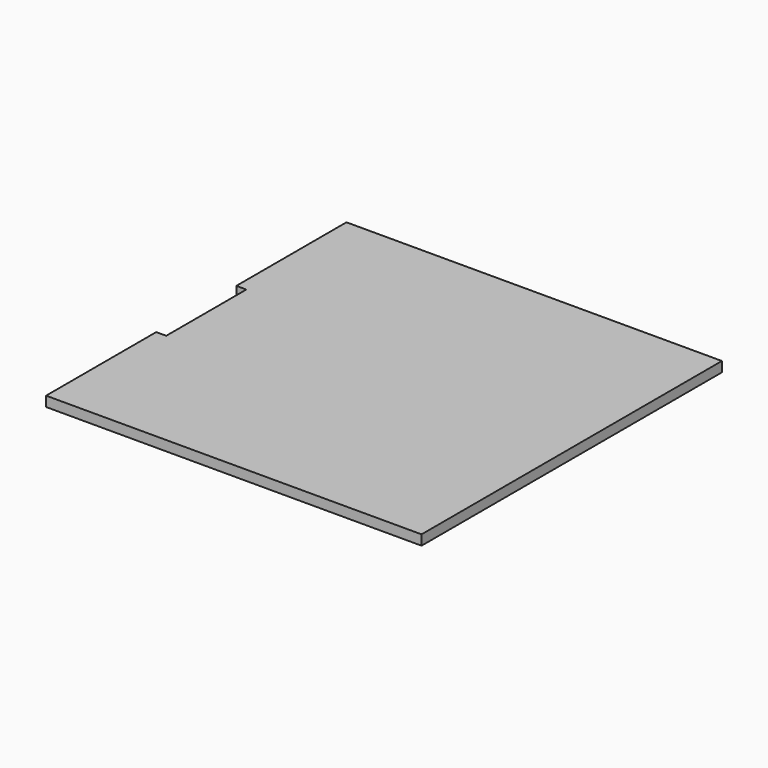
from build123d import *

# Parameters (mm, degrees)
F2_DEPTH = 4
F1_W     = 4
F1_H     = 40
F3_DEPTH = 4


with BuildPart() as f2:
    # F0 (on Top) → F2 (new body)
    with BuildSketch(Plane.XY):
        Polygon((0, 150), (0, 0), (65, 0), (66, 0), (67, 0), (68, 0), (69, 0), (70, 0), (71, 0), (72, 0), (73, 0), (74, 0), (75, 0), (76, 0), (77, 0), (78, 0), (79, 0), (80, 0), (81, 0), (82, 0), (83, 0), (84, 0), (150, 0), (150, 150), (84, 150), (83, 150), (82, 150), (81, 150), (80, 150), (79, 150), (78, 150), (77, 150), (76, 150), (75, 150), (74, 150), (73, 150), (72, 150), (71, 150), (70, 150), (69, 150), (68, 150), (67, 150), (66, 150), (65, 150), align=None)
    extrude(amount=F2_DEPTH)

    # F1 (on Top) → F3 (cut, through all)
    with BuildSketch(Plane.XY):
        with Locations((2, 75)):
            Rectangle(F1_W, F1_H)
    extrude(amount=F3_DEPTH, mode=Mode.SUBTRACT)


solid = f2.part
